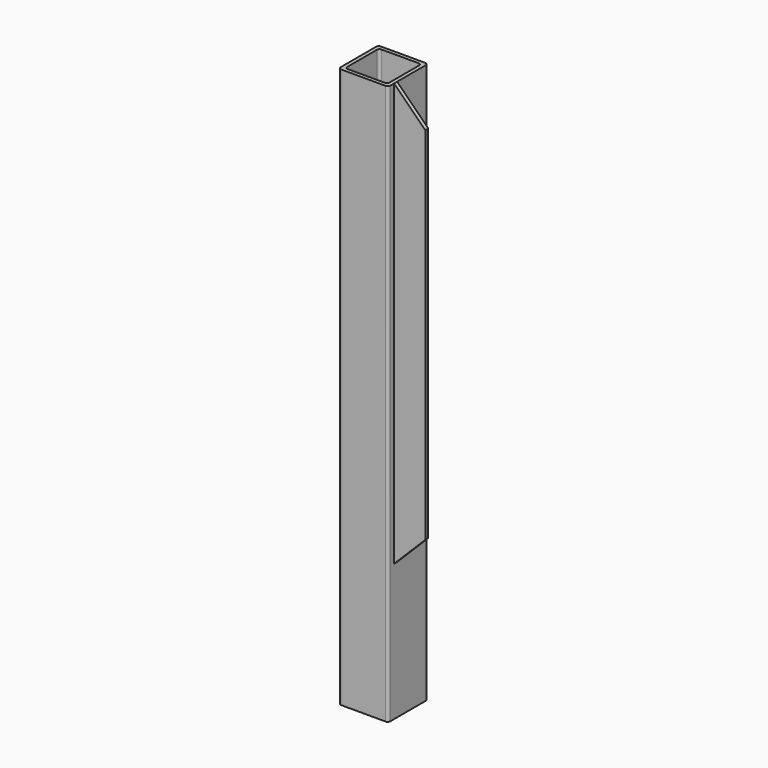
from build123d import *

# Parameters (mm, degrees)
F1_DEPTH = 225
F2_W     = 3
F2_H     = 340
F3_DEPTH = 25
F5_DEPTH = 34.001


with BuildPart() as f1:
    # F0 (on Top) → F1 (new body, symmetric)
    with BuildSketch(Plane.XY):
        with BuildLine():
            ThreePointArc((20, 18), (19.414214, 19.414214), (18, 20))
            Line((18, 20), (-18, 20))
            ThreePointArc((-18, 20), (-19.414214, 19.414214), (-20, 18))
            Line((-20, 18), (-20, -18))
            ThreePointArc((-20, -18), (-19.414214, -19.414214), (-18, -20))
            Line((-18, -20), (18, -20))
            ThreePointArc((18, -20), (19.414214, -19.414214), (20, -18))
            Line((20, -18), (20, 18))
        make_face()
        with BuildLine():
            Line((-15, 17), (15, 17))
            ThreePointArc((15, 17), (16.414214, 16.414214), (17, 15))
            Line((17, 15), (17, -15))
            ThreePointArc((17, -15), (16.414214, -16.414214), (15, -17))
            Line((15, -17), (-15, -17))
            ThreePointArc((-15, -17), (-16.414214, -16.414214), (-17, -15))
            Line((-17, -15), (-17, 15))
            ThreePointArc((-17, 15), (-16.414214, 16.414214), (-15, 17))
        make_face(mode=Mode.SUBTRACT)
    extrude(amount=F1_DEPTH, both=True)

    # F2 (on face) → F3 (join)
    with BuildSketch(Plane.YZ.offset(20)):
        with Locations((-12.5, 55)):
            Rectangle(F2_W, F2_H)
    extrude(amount=F3_DEPTH)

    # F4 (on face) → F5 (cut, through all)
    with BuildSketch(Plane.XZ.offset(14)):
        Polygon((45, 225), (20, 225), (45, 200), align=None)
        Polygon((45, -115), (45, -90), (20, -115), align=None)
    extrude(amount=-F5_DEPTH, mode=Mode.SUBTRACT)


solid = f1.part
